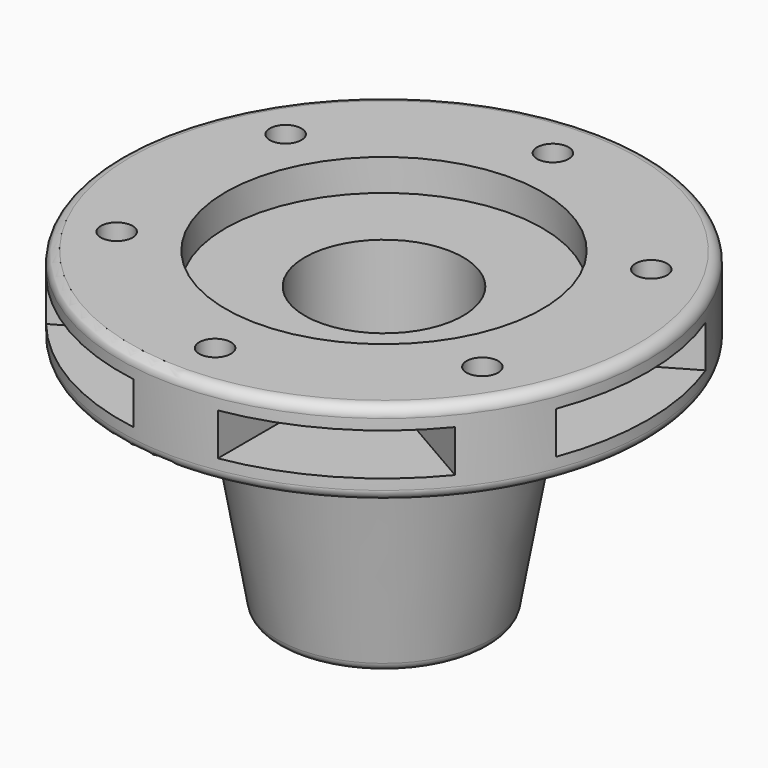
from build123d import *

# Parameters (mm, degrees)
F4_DEPTH = 20
F5_R     = 5
F7_D     = 15


with BuildPart() as f1:
    # F0 (on Front) → F1 (revolve)
    with BuildSketch(Plane.XZ):
        Polygon((-37.5, 0), (-37.5, 135), (-75, 135), (-75, 150), (-125, 150), (-125, 110), (-75, 110), (-67.9289321881, 102.9289321881), (-49.7797843479, 0), align=None)
    revolve(axis=Axis((0, 0, 75), (0, 0, 1)))

    # F3 (on offset) → F4 (cut)
    with BuildSketch(Plane.XY.offset(140)):
        with BuildLine():
            ThreePointArc((-61.5454401063, 58.6272871803), (-42.5, 73.6121593217), (-20, 82.6135582093))
            Line((-20, 82.6135582093), (-20, 123.3896267925))
            ThreePointArc((-20, 123.3896267925), (-62.5, 108.2531754731), (-96.8585513658, 79.015321472))
            Line((-96.8585513658, 79.015321472), (-61.5454401063, 58.6272871803))
        make_face()
        with BuildLine():
            ThreePointArc((20, 82.6135582093), (42.5, 73.6121593217), (61.5454401063, 58.6272871803))
            Line((61.5454401063, 58.6272871803), (96.8585513658, 79.015321472))
            ThreePointArc((96.8585513658, 79.015321472), (62.5, 108.2531754731), (20, 123.3896267925))
            Line((20, 123.3896267925), (20, 82.6135582093))
        make_face()
        with BuildLine():
            ThreePointArc((81.5454401063, 23.986271029), (84.1319273791, 12.1168806004), (85, 0))
            ThreePointArc((85, 0), (84.1319273791, -12.1168806004), (81.5454401063, -23.986271029))
            Line((81.5454401063, -23.986271029), (116.8585513658, -44.3743053206))
            ThreePointArc((116.8585513658, -44.3743053206), (122.9477916043, -22.5574940904), (125, 0))
            ThreePointArc((125, 0), (122.9477916043, 22.5574940904), (116.8585513658, 44.3743053206))
            Line((116.8585513658, 44.3743053206), (81.5454401063, 23.986271029))
        make_face()
        with BuildLine():
            Line((96.8585513658, -79.015321472), (61.5454401063, -58.6272871803))
            ThreePointArc((61.5454401063, -58.6272871803), (42.5, -73.6121593217), (20, -82.6135582093))
            Line((20, -82.6135582093), (20, -123.3896267925))
            ThreePointArc((20, -123.3896267925), (62.5, -108.2531754731), (96.8585513658, -79.015321472))
        make_face()
        with BuildLine():
            Line((-20, -123.3896267925), (-20, -82.6135582093))
            ThreePointArc((-20, -82.6135582093), (-42.5, -73.6121593217), (-61.5454401063, -58.6272871803))
            Line((-61.5454401063, -58.6272871803), (-96.8585513658, -79.015321472))
            ThreePointArc((-96.8585513658, -79.015321472), (-62.5, -108.2531754731), (-20, -123.3896267925))
        make_face()
        with BuildLine():
            ThreePointArc((-81.5454401063, -23.986271029), (-85, 0), (-81.5454401063, 23.986271029))
            Line((-81.5454401063, 23.986271029), (-116.8585513658, 44.3743053206))
            ThreePointArc((-116.8585513658, 44.3743053206), (-125, 0), (-116.8585513658, -44.3743053206))
            Line((-116.8585513658, -44.3743053206), (-81.5454401063, -23.986271029))
        make_face()
    extrude(amount=-F4_DEPTH, mode=Mode.SUBTRACT)

    # F5
    f5_edges = [f1.edges().sort_by_distance(p)[0] for p in [
        (125, 0, 150),
        (125, 0, 110),
        (49.779784, 0, 0),
    ]]
    fillet(f5_edges, radius=F5_R)

    # F7 (through all)
    with Locations(Plane.XY.offset(150)):
        with Locations((86.6025403784, 50), (86.6025403784, -50), (0, -100), (-86.6025403784, -50), (-86.6025403784, 50), (0, 100)):
            Hole(F7_D / 2)


solid = f1.part
